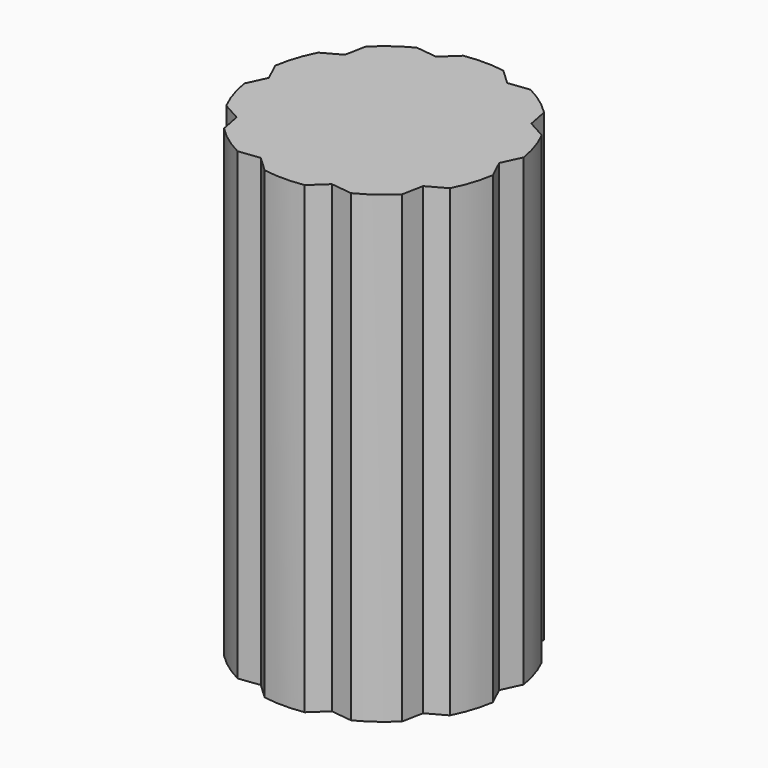
from build123d import *

# Parameters (mm, degrees)
F1_DEPTH = 120


with BuildPart() as f1:
    # F0 (on Top) → F1 (new body)
    with BuildSketch(Plane.XY):
        with BuildLine():
            Line((9.203912, 28.326729), (5.175, 32.085345))
            ThreePointArc((5.175, 32.085345), (0, 32.5), (-5.175, 32.085345))
            Line((-5.175, 32.085345), (-9.203912, 28.326729))
            Line((-9.203912, 28.326729), (-9.209001, 28.321981))
            Line((-9.209001, 28.321981), (-14.684911, 28.993161))
            ThreePointArc((-14.684911, 28.993161), (-19.108588, 26.289006), (-23.045956, 22.915801))
            Line((-23.045956, 22.915801), (-24.096155, 17.506881))
            Line((-24.096155, 17.506881), (-28.915814, 14.836634))
            ThreePointArc((-28.915814, 14.836634), (-30.909337, 10.043052), (-32.11414, 4.993199))
            Line((-32.11414, 4.993199), (-29.784485, 0))
            Line((-29.784485, 0), (-32.11414, -4.993199))
            ThreePointArc((-32.11414, -4.993199), (-30.909337, -10.043052), (-28.915814, -14.836634))
            Line((-28.915814, -14.836634), (-24.096155, -17.506881))
            Line((-24.096155, -17.506881), (-23.045956, -22.915801))
            ThreePointArc((-23.045956, -22.915801), (-19.103021, -26.293052), (-14.67263, -28.999378))
            Line((-14.67263, -28.999378), (-9.203912, -28.326729))
            Line((-9.203912, -28.326729), (-5.175, -32.085345))
            ThreePointArc((-5.175, -32.085345), (0, -32.5), (5.175, -32.085345))
            Line((5.175, -32.085345), (9.203912, -28.326729))
            Line((9.203912, -28.326729), (14.67263, -28.999378))
            ThreePointArc((14.67263, -28.999378), (19.103021, -26.293052), (23.045956, -22.915801))
            Line((23.045956, -22.915801), (24.096155, -17.506881))
            Line((24.096155, -17.506881), (28.915814, -14.836634))
            ThreePointArc((28.915814, -14.836634), (30.909337, -10.043052), (32.11414, -4.993199))
            Line((32.11414, -4.993199), (29.784485, 0))
            Line((29.784485, 0), (32.11414, 4.993199))
            ThreePointArc((32.11414, 4.993199), (30.909337, 10.043052), (28.915814, 14.836634))
            Line((28.915814, 14.836634), (24.096155, 17.506881))
            Line((24.096155, 17.506881), (23.045956, 22.915801))
            ThreePointArc((23.045956, 22.915801), (19.108588, 26.289006), (14.684911, 28.993161))
            Line((14.684911, 28.993161), (9.209001, 28.321981))
            Line((9.209001, 28.321981), (9.203912, 28.326729))
        make_face()
    extrude(amount=F1_DEPTH)


solid = f1.part
